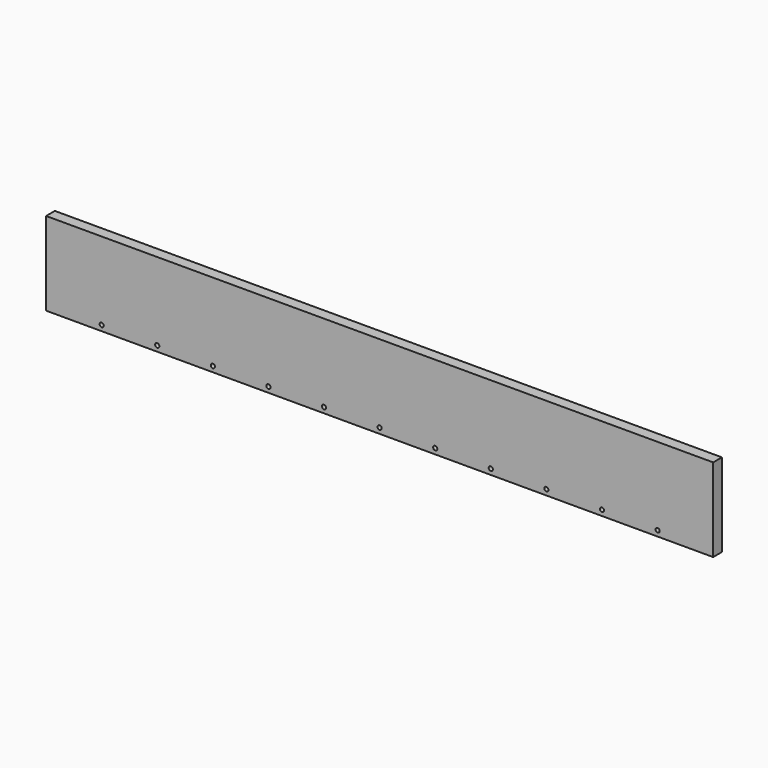
from build123d import *

# Parameters (mm, degrees)
F0_W     = 609.6
F0_H     = 76.2
F0_R     = 1.905
F1_DEPTH = 10


with BuildPart() as f1:
    # F0 (on Front) → F1 (new body)
    with BuildSketch(Plane.XZ):
        Rectangle(F0_W, F0_H)
        with Locations((-254, -33.02)):
            Circle(F0_R, mode=Mode.SUBTRACT)
        with Locations((-203.2, -33.02)):
            Circle(F0_R, mode=Mode.SUBTRACT)
        with Locations((-152.4, -33.02)):
            Circle(F0_R, mode=Mode.SUBTRACT)
        with Locations((-101.6, -33.02)):
            Circle(F0_R, mode=Mode.SUBTRACT)
        with Locations((-50.8, -33.02)):
            Circle(F0_R, mode=Mode.SUBTRACT)
        with Locations((0, -33.02)):
            Circle(F0_R, mode=Mode.SUBTRACT)
        with Locations((50.8, -33.02)):
            Circle(F0_R, mode=Mode.SUBTRACT)
        with Locations((101.6, -33.02)):
            Circle(F0_R, mode=Mode.SUBTRACT)
        with Locations((152.4, -33.02)):
            Circle(F0_R, mode=Mode.SUBTRACT)
        with Locations((203.2, -33.02)):
            Circle(F0_R, mode=Mode.SUBTRACT)
        with Locations((254, -33.02)):
            Circle(F0_R, mode=Mode.SUBTRACT)
    extrude(amount=F1_DEPTH)


solid = f1.part
